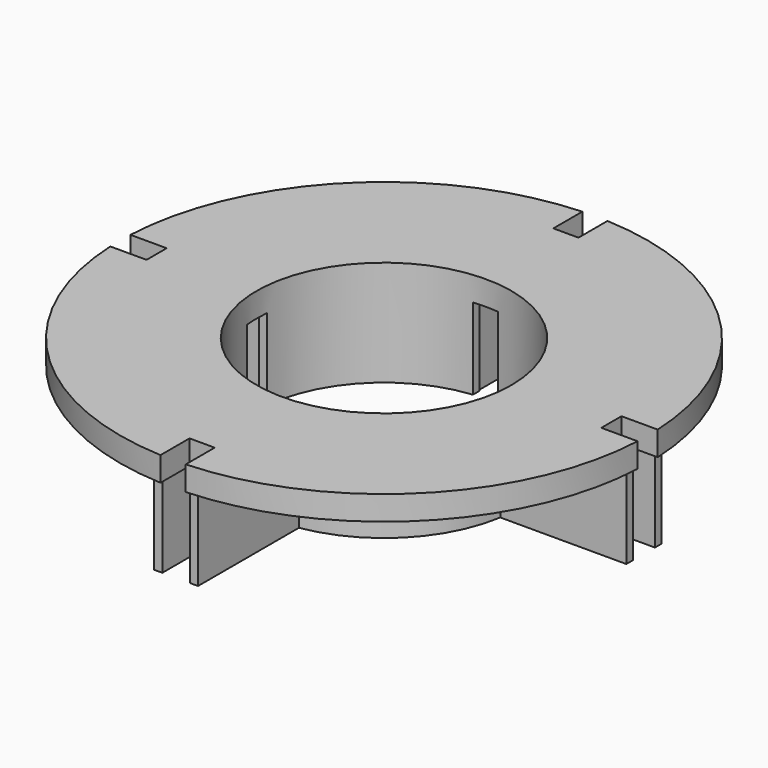
from build123d import *

# Parameters (mm, degrees)
BOX017_W      = 3
BOX017_H      = 3
BOX017_DEPTH  = 3
BOX018_W      = 3
BOX018_H      = 3
BOX018_DEPTH  = 3
BOX019_W      = 3
BOX019_H      = 3
BOX019_DEPTH  = 3
BOX016_W      = 3
BOX016_H      = 3
BOX016_DEPTH  = 3
BOX012_W      = 3.1
BOX012_H      = 6
BOX012_DEPTH  = 10
BOX013_W      = 3.1
BOX013_H      = 6
BOX013_DEPTH  = 10
BOX014_W      = 6
BOX014_H      = 3.1
BOX014_DEPTH  = 10
BOX015_W      = 6
BOX015_H      = 3.1
BOX015_DEPTH  = 10
BOX001_W      = 3.1
BOX001_H      = 6
BOX001_DEPTH  = 3
BOX002_W      = 6
BOX002_H      = 3.1
BOX002_DEPTH  = 3
BOX003_W      = 6
BOX003_H      = 3.1
BOX003_DEPTH  = 3
BOX_W         = 3.1
BOX_H         = 6
BOX_DEPTH     = 3
TUBE001_R     = 16.7
TUBE001_R_2   = 15.7
TUBE001_DEPTH = 10
BOX005_W      = 1
BOX005_H      = 16
BOX005_DEPTH  = 10
BOX006_W      = 1
BOX006_H      = 16
BOX006_DEPTH  = 10
BOX007_W      = 1
BOX007_H      = 16
BOX007_DEPTH  = 10
BOX008_W      = 16
BOX008_H      = 1
BOX008_DEPTH  = 10
BOX009_W      = 16
BOX009_H      = 1
BOX009_DEPTH  = 10
BOX010_W      = 16
BOX010_H      = 1
BOX010_DEPTH  = 10
BOX011_W      = 16
BOX011_H      = 1
BOX011_DEPTH  = 10
BOX004_W      = 1
BOX004_H      = 16
BOX004_DEPTH  = 10
TUBE_R        = 32.5
TUBE_R_2      = 15.7
TUBE_DEPTH    = 3


with BuildPart() as finlock002:
    # Box017 → Box017 (new body)
    with BuildSketch(Plane(origin=(-1.5, 21, -3), x_dir=(1, 0, 0), z_dir=(0, 0, 1))):
        with Locations((1.5, 1.5)):
            Rectangle(BOX017_W, BOX017_H)
    extrude(amount=BOX017_DEPTH)


with BuildPart() as finlock003:
    # Box018 → Box018 (new body)
    with BuildSketch(Plane(origin=(-1.5, -24, -3), x_dir=(1, 0, 0), z_dir=(0, 0, 1))):
        with Locations((1.5, 1.5)):
            Rectangle(BOX018_W, BOX018_H)
    extrude(amount=BOX018_DEPTH)


with BuildPart() as finlock004:
    # Box019 → Box019 (new body)
    with BuildSketch(Plane(origin=(-24, -1.5, -3), x_dir=(1, 0, 0), z_dir=(0, 0, 1))):
        with Locations((1.5, 1.5)):
            Rectangle(BOX019_W, BOX019_H)
    extrude(amount=BOX019_DEPTH)


with BuildPart() as finlocks:
    # Box016 → Box016 (new body)
    with BuildSketch(Plane(origin=(21, -1.5, -3), x_dir=(1, 0, 0), z_dir=(0, 0, 1))):
        with Locations((1.5, 1.5)):
            Rectangle(BOX016_W, BOX016_H)
    extrude(amount=BOX016_DEPTH)

    # Fusion005: union FinLock002, FinLock003, FinLock004
    add(finlock002.part)
    add(finlock003.part)
    add(finlock004.part)


with BuildPart() as fincut005:
    # Box012 → Box012 (new body)
    with BuildSketch(Plane(origin=(-1.55, -21, -10), x_dir=(1, 0, 0), z_dir=(0, 0, 1))):
        with Locations((1.55, 3)):
            Rectangle(BOX012_W, BOX012_H)
    extrude(amount=BOX012_DEPTH)


with BuildPart() as fincut006:
    # Box013 → Box013 (new body)
    with BuildSketch(Plane(origin=(-1.55, 15, -10), x_dir=(1, 0, 0), z_dir=(0, 0, 1))):
        with Locations((1.55, 3)):
            Rectangle(BOX013_W, BOX013_H)
    extrude(amount=BOX013_DEPTH)


with BuildPart() as fincut007:
    # Box014 → Box014 (new body)
    with BuildSketch(Plane(origin=(15, -1.55, -10), x_dir=(1, 0, 0), z_dir=(0, 0, 1))):
        with Locations((3, 1.55)):
            Rectangle(BOX014_W, BOX014_H)
    extrude(amount=BOX014_DEPTH)


with BuildPart() as innerfincutouts:
    # Box015 → Box015 (new body)
    with BuildSketch(Plane(origin=(-21, -1.55, -10), x_dir=(1, 0, 0), z_dir=(0, 0, 1))):
        with Locations((3, 1.55)):
            Rectangle(BOX015_W, BOX015_H)
    extrude(amount=BOX015_DEPTH)

    # Fusion002: union FinCut005, FinCut006, FinCut007
    add(fincut005.part)
    add(fincut006.part)
    add(fincut007.part)


with BuildPart() as fincut002:
    # Box001 → Box001 (new body)
    with BuildSketch(Plane(origin=(-1.55, 28, 0), x_dir=(1, 0, 0), z_dir=(0, 0, 1))):
        with Locations((1.55, 3)):
            Rectangle(BOX001_W, BOX001_H)
    extrude(amount=BOX001_DEPTH)


with BuildPart() as fincut003:
    # Box002 → Box002 (new body)
    with BuildSketch(Plane(origin=(28, -1.55, 0), x_dir=(1, 0, 0), z_dir=(0, 0, 1))):
        with Locations((3, 1.55)):
            Rectangle(BOX002_W, BOX002_H)
    extrude(amount=BOX002_DEPTH)


with BuildPart() as fincut004:
    # Box003 → Box003 (new body)
    with BuildSketch(Plane(origin=(-34, -1.55, 0), x_dir=(1, 0, 0), z_dir=(0, 0, 1))):
        with Locations((3, 1.55)):
            Rectangle(BOX003_W, BOX003_H)
    extrude(amount=BOX003_DEPTH)


with BuildPart() as fincutouts:
    # Box → Box (new body)
    with BuildSketch(Plane(origin=(-1.55, -34, 0), x_dir=(1, 0, 0), z_dir=(0, 0, 1))):
        with Locations((1.55, 3)):
            Rectangle(BOX_W, BOX_H)
    extrude(amount=BOX_DEPTH)

    # Fusion: union FinCut002, FinCut003, FinCut004
    add(fincut002.part)
    add(fincut003.part)
    add(fincut004.part)

    # Fusion003: union InnerFinCutouts
    add(innerfincutouts.part)


with BuildPart() as innertube:
    # Tube001 → Tube001 (new body)
    with BuildSketch(Plane.XY.offset(-10)):
        Circle(TUBE001_R)
        Circle(TUBE001_R_2, mode=Mode.SUBTRACT)
    extrude(amount=TUBE001_DEPTH)


with BuildPart() as alignment002:
    # Box005 → Box005 (new body)
    with BuildSketch(Plane(origin=(-2.7, 16, -10), x_dir=(1, 0, 0), z_dir=(0, 0, 1))):
        with Locations((0.5, 8)):
            Rectangle(BOX005_W, BOX005_H)
    extrude(amount=BOX005_DEPTH)


with BuildPart() as alignment003:
    # Box006 → Box006 (new body)
    with BuildSketch(Plane(origin=(-2.7, -32, -10), x_dir=(1, 0, 0), z_dir=(0, 0, 1))):
        with Locations((0.5, 8)):
            Rectangle(BOX006_W, BOX006_H)
    extrude(amount=BOX006_DEPTH)


with BuildPart() as alignment004:
    # Box007 → Box007 (new body)
    with BuildSketch(Plane(origin=(1.7, -32, -10), x_dir=(1, 0, 0), z_dir=(0, 0, 1))):
        with Locations((0.5, 8)):
            Rectangle(BOX007_W, BOX007_H)
    extrude(amount=BOX007_DEPTH)


with BuildPart() as alignment005:
    # Box008 → Box008 (new body)
    with BuildSketch(Plane(origin=(16, 1.7, -10), x_dir=(1, 0, 0), z_dir=(0, 0, 1))):
        with Locations((8, 0.5)):
            Rectangle(BOX008_W, BOX008_H)
    extrude(amount=BOX008_DEPTH)


with BuildPart() as alignment006:
    # Box009 → Box009 (new body)
    with BuildSketch(Plane(origin=(16, -2.7, -10), x_dir=(1, 0, 0), z_dir=(0, 0, 1))):
        with Locations((8, 0.5)):
            Rectangle(BOX009_W, BOX009_H)
    extrude(amount=BOX009_DEPTH)


with BuildPart() as alignment007:
    # Box010 → Box010 (new body)
    with BuildSketch(Plane(origin=(-32, 1.7, -10), x_dir=(1, 0, 0), z_dir=(0, 0, 1))):
        with Locations((8, 0.5)):
            Rectangle(BOX010_W, BOX010_H)
    extrude(amount=BOX010_DEPTH)


with BuildPart() as alignment008:
    # Box011 → Box011 (new body)
    with BuildSketch(Plane(origin=(-32, -2.7, -10), x_dir=(1, 0, 0), z_dir=(0, 0, 1))):
        with Locations((8, 0.5)):
            Rectangle(BOX011_W, BOX011_H)
    extrude(amount=BOX011_DEPTH)


with BuildPart() as alignmenttabs:
    # Box004 → Box004 (new body)
    with BuildSketch(Plane(origin=(1.7, 16, -10), x_dir=(1, 0, 0), z_dir=(0, 0, 1))):
        with Locations((0.5, 8)):
            Rectangle(BOX004_W, BOX004_H)
    extrude(amount=BOX004_DEPTH)

    # Fusion001: union Alignment002, Alignment003, Alignment004, Alignment005, Alignment006, Alignment007, Alignment008
    add(alignment002.part)
    add(alignment003.part)
    add(alignment004.part)
    add(alignment005.part)
    add(alignment006.part)
    add(alignment007.part)
    add(alignment008.part)


with BuildPart() as obj1:
    # Tube → Tube (new body)
    with BuildSketch(Plane.XY):
        Circle(TUBE_R)
        Circle(TUBE_R_2, mode=Mode.SUBTRACT)
    extrude(amount=TUBE_DEPTH)

    # Fusion004: union InnerTube, AlignmentTabs
    add(innertube.part)
    add(alignmenttabs.part)

    # Cut: cut FinCutouts
    add(fincutouts.part, mode=Mode.SUBTRACT)

    # Connect: union FinLocks
    add(finlocks.part)


solid = obj1.part
